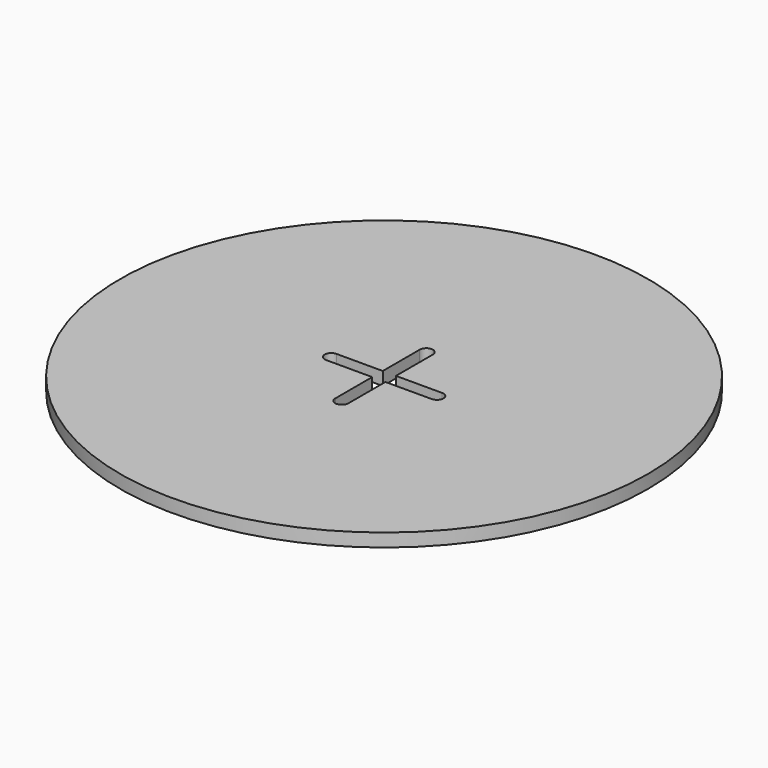
from build123d import *

# Parameters (mm, degrees)
F0_R     = 127
F1_DEPTH = 6.35


with BuildPart() as f1:
    # F0 (on Top) → F1 (new body)
    with BuildSketch(Plane.XY):
        Circle(F0_R)
        with BuildLine():
            Line((-3.175, -25.4), (-3.175, -3.175))
            Line((-3.175, -3.175), (-25.4, -3.175))
            ThreePointArc((-25.4, -3.175), (-28.575, 0), (-25.4, 3.175))
            Line((-25.4, 3.175), (-3.175, 3.175))
            Line((-3.175, 3.175), (-3.175, 25.4))
            ThreePointArc((-3.175, 25.4), (0, 28.575), (3.175, 25.4))
            Line((3.175, 25.4), (3.175, 3.175))
            Line((3.175, 3.175), (25.4, 3.175))
            ThreePointArc((25.4, 3.175), (28.575, 0), (25.4, -3.175))
            Line((25.4, -3.175), (3.175, -3.175))
            Line((3.175, -3.175), (3.175, -25.4))
            ThreePointArc((3.175, -25.4), (0, -28.575), (-3.175, -25.4))
        make_face(mode=Mode.SUBTRACT)
    extrude(amount=F1_DEPTH)


solid = f1.part
